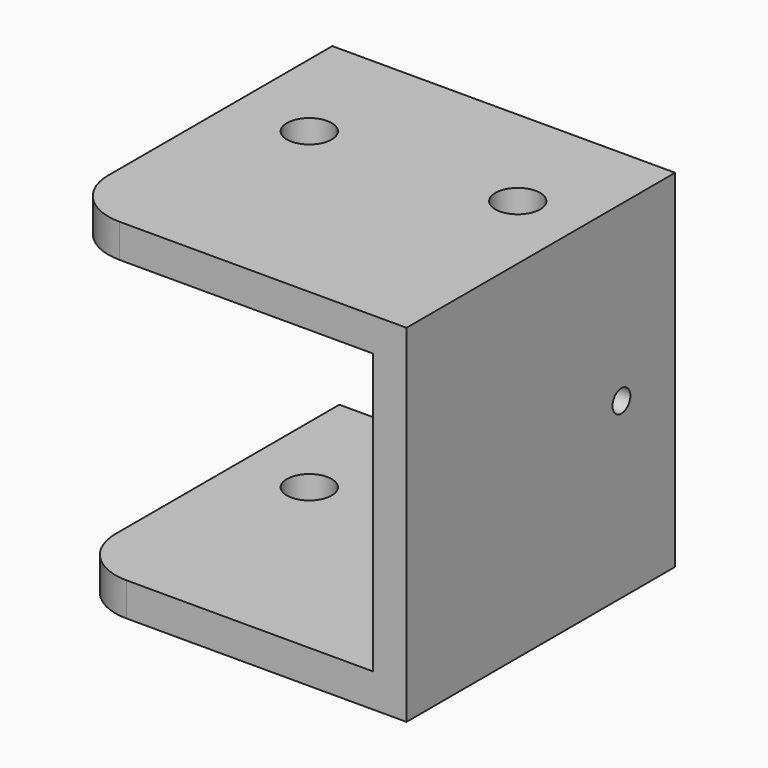
from build123d import *

# Parameters (mm, degrees)
F1_DEPTH = 30
F3_D     = 2
F5_D     = 4
F6_R     = 5
F7_R     = 5


with BuildPart() as f1:
    # F0 (on Front) → F1 (new body)
    with BuildSketch(Plane.XZ):
        Polygon((-25.762998, -16.926608), (-25.762998, -19.926608), (4.237002, -19.926608), (4.237002, 11.073392), (-26.395301, 11.073392), (-26.395301, 8.073392), (1.237002, 8.073392), (1.237002, -16.926608), align=None)
    extrude(amount=F1_DEPTH)

    # F3 (through all)
    with Locations(Plane.YZ.offset(4.237002)):
        with Locations((-6, -4.426608)):
            Hole(F3_D / 2)

    # F5 (through all)
    with Locations(Plane(origin=(0, 0, -19.926608), x_dir=(1, 0, 0), z_dir=(0, 0, -1))):
        with Locations((-19.609278, 11.052052), (-1.659339, 10.208893)):
            Hole(F5_D / 2)

    # F6
    f6_edges = [f1.edges().sort_by_distance(p)[0] for p in [
        (-26.395301, -30, 9.573392),
    ]]
    fillet(f6_edges, radius=F6_R)

    # F7
    f7_edges = [f1.edges().sort_by_distance(p)[0] for p in [
        (-25.762998, -30, -18.426608),
    ]]
    fillet(f7_edges, radius=F7_R)


solid = f1.part
